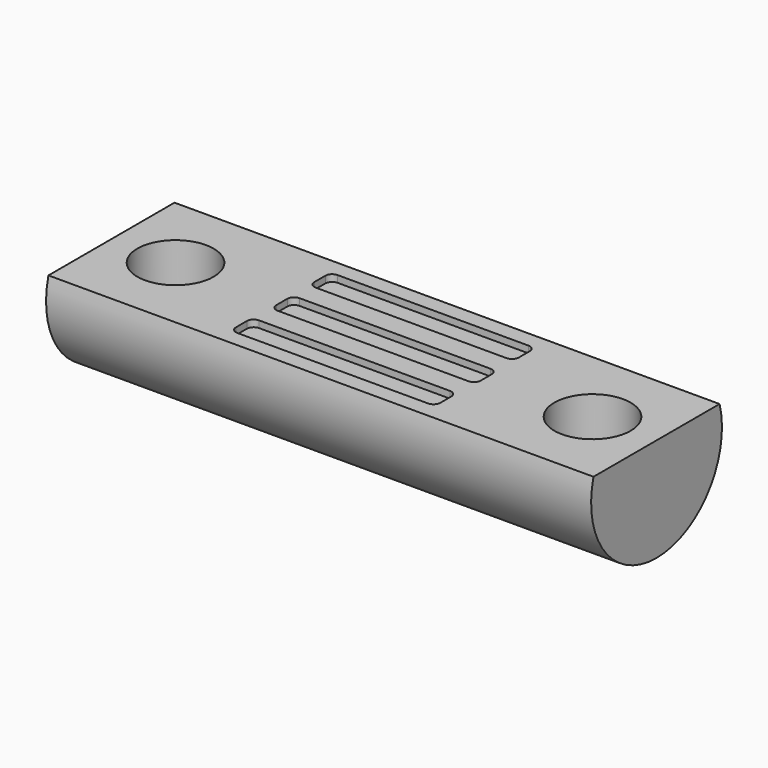
from build123d import *

# Parameters (mm, degrees)
F0_R     = 3.81
F1_DEPTH = 12.7
F3_DEPTH = 25.4
F4_R     = 1.778
F5_DEPTH = 25.4
F7_DEPTH = 0.3175


with BuildPart() as f1:
    # F0 (on Right) → F1 (new body, symmetric)
    with BuildSketch(Plane.YZ):
        Circle(F0_R)
    extrude(amount=F1_DEPTH, both=True)

    # F2 (on face) → F3 (cut)
    with BuildSketch(Plane.YZ.offset(12.7)):
        with BuildLine():
            ThreePointArc((3.6720354029, 1.016), (0, 3.81), (-3.6720354029, 1.016))
            Line((-3.6720354029, 1.016), (3.6720354029, 1.016))
        make_face()
    extrude(amount=-F3_DEPTH, mode=Mode.SUBTRACT)

    # F4 (on face) → F5 (cut)
    with BuildSketch(Plane.XY.offset(1.016)):
        with Locations((-9.7155, 0)):
            Circle(F4_R)
        with Locations((9.7155, 0)):
            Circle(F4_R)
    extrude(amount=-F5_DEPTH, mode=Mode.SUBTRACT)

    # F6 (on face) → F7 (cut)
    with BuildSketch(Plane.XY.offset(1.016)):
        with BuildLine():
            Line((-4.4995615003, 1.651), (4.3904384997, 1.651))
            ThreePointArc((4.3904384997, 1.651), (4.6149449027, 1.743993597), (4.7079384997, 1.9685))
            Line((4.7079384997, 1.9685), (4.7079384997, 2.6035))
            ThreePointArc((4.7079384997, 2.6035), (4.6149449027, 2.828006403), (4.3904384997, 2.921))
            Line((4.3904384997, 2.921), (-4.4995615003, 2.921))
            ThreePointArc((-4.4995615003, 2.921), (-4.7240679033, 2.828006403), (-4.8170615003, 2.6035))
            Line((-4.8170615003, 2.6035), (-4.8170615003, 1.9685))
            ThreePointArc((-4.8170615003, 1.9685), (-4.7240679033, 1.743993597), (-4.4995615003, 1.651))
        make_face()
        with BuildLine():
            ThreePointArc((4.7625, 0.3175), (4.669506403, 0.542006403), (4.445, 0.635))
            Line((4.445, 0.635), (-4.445, 0.635))
            ThreePointArc((-4.445, 0.635), (-4.669506403, 0.542006403), (-4.7625, 0.3175))
            Line((-4.7625, 0.3175), (-4.7625, -0.3175))
            ThreePointArc((-4.7625, -0.3175), (-4.669506403, -0.542006403), (-4.445, -0.635))
            Line((-4.445, -0.635), (4.445, -0.635))
            ThreePointArc((4.445, -0.635), (4.669506403, -0.542006403), (4.7625, -0.3175))
            Line((4.7625, -0.3175), (4.7625, 0.3175))
        make_face()
        with BuildLine():
            ThreePointArc((4.7079384997, -1.9685), (4.6149449027, -1.743993597), (4.3904384997, -1.651))
            Line((4.3904384997, -1.651), (-4.4995615003, -1.651))
            ThreePointArc((-4.4995615003, -1.651), (-4.7240679033, -1.743993597), (-4.8170615003, -1.9685))
            Line((-4.8170615003, -1.9685), (-4.8170615003, -2.6035))
            ThreePointArc((-4.8170615003, -2.6035), (-4.7240679033, -2.828006403), (-4.4995615003, -2.921))
            Line((-4.4995615003, -2.921), (4.3904384997, -2.921))
            ThreePointArc((4.3904384997, -2.921), (4.6149449027, -2.828006403), (4.7079384997, -2.6035))
            Line((4.7079384997, -2.6035), (4.7079384997, -1.9685))
        make_face()
    extrude(amount=-F7_DEPTH, mode=Mode.SUBTRACT)


solid = f1.part
